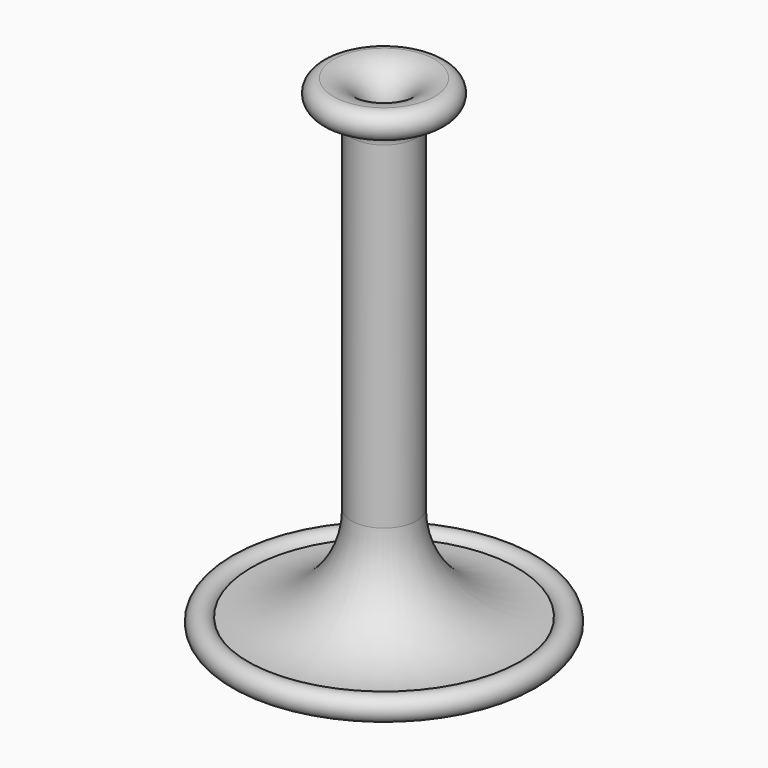
from build123d import *


with BuildPart() as f1:
    # F0 (on Front) → F1 (revolve)
    with BuildSketch(Plane.XZ):
        with BuildLine():
            Line((2.352782, 50), (2.352782, 0))
            ThreePointArc((2.352782, 0), (7.5568, -11.595747), (19.679157, -15.415646))
            ThreePointArc((19.679157, -15.415646), (23.072549, -14.741451), (19.679157, -14.067256))
            ThreePointArc((19.679157, -14.067256), (9.243722, -10.218966), (4.852782, 0))
            Line((4.852782, 0), (4.852782, 50))
            ThreePointArc((4.852782, 50), (5.598477, 51.693623), (7.351215, 52.287195))
            ThreePointArc((7.351215, 52.287195), (9.498795, 54.188945), (7.481502, 56.228377))
            ThreePointArc((7.481502, 56.228377), (3.489303, 54.289934), (2.352782, 50))
        make_face()
    revolve(axis=Axis((0, 0, 25.2214), (0, 0, 1)))


solid = f1.part
